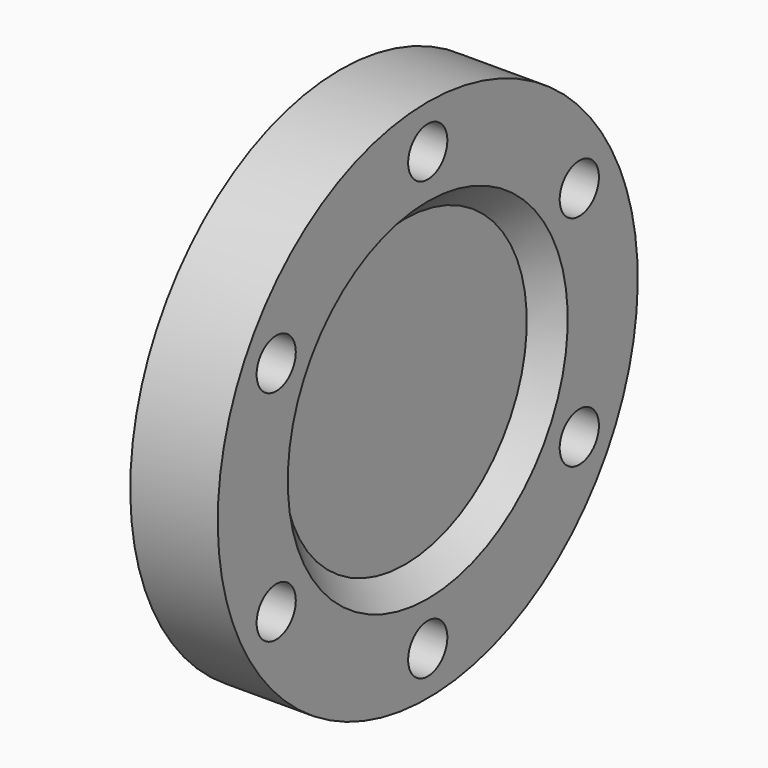
from build123d import *

# Parameters (mm, degrees)
F2_R     = 1.778
F3_DEPTH = 6.351


with BuildPart() as f1:
    # F0 (on Front) → F1 (revolve)
    with BuildSketch(Plane.XZ):
        Polygon((-1.651, 11.049), (0, 12.7), (0, 19.05), (-6.35, 19.05), (-6.35, 0), (-1.651, 0), align=None)
    revolve(axis=Axis((-4.0005, 0, 0), (1, 0, 0)))

    # F2 (on Right) → F3 (cut, through all)
    with BuildSketch(Plane.YZ):
        with Locations((0, 15.875)):
            Circle(F2_R)
        with Locations((-13.748153, 7.9375)):
            Circle(F2_R)
        with Locations((-13.748153, -7.9375)):
            Circle(F2_R)
        with Locations((0, -15.875)):
            Circle(F2_R)
        with Locations((13.748153, -7.9375)):
            Circle(F2_R)
        with Locations((13.748153, 7.9375)):
            Circle(F2_R)
    extrude(amount=-F3_DEPTH, mode=Mode.SUBTRACT)


solid = f1.part
